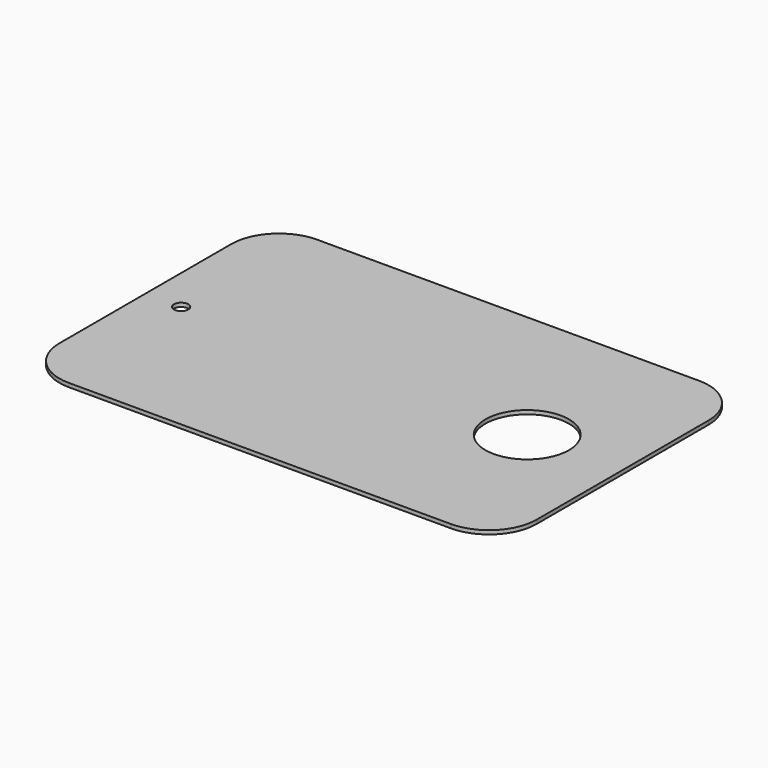
from build123d import *

# Parameters (mm, degrees)
F0_R     = 1.905
F0_R_2   = 11.1125
F1_DEPTH = 1.016


with BuildPart() as f1:
    # F0 (on Top) → F1 (new body)
    with BuildSketch(Plane.XY):
        with BuildLine():
            Line((12.7, 41.275), (-88.9, 41.275))
            ThreePointArc((-88.9, 41.275), (-97.880256, 37.555256), (-101.6, 28.575))
            Line((-101.6, 28.575), (-101.6, -28.575))
            ThreePointArc((-101.6, -28.575), (-97.880256, -37.555256), (-88.9, -41.275))
            Line((-88.9, -41.275), (12.7, -41.275))
            ThreePointArc((12.7, -41.275), (21.680256, -37.555256), (25.4, -28.575))
            Line((25.4, -28.575), (25.4, 28.575))
            ThreePointArc((25.4, 28.575), (21.680256, 37.555256), (12.7, 41.275))
        make_face()
        with Locations((-92.075, 0)):
            Circle(F0_R, mode=Mode.SUBTRACT)
        Circle(F0_R_2, mode=Mode.SUBTRACT)
    extrude(amount=F1_DEPTH)


solid = f1.part
